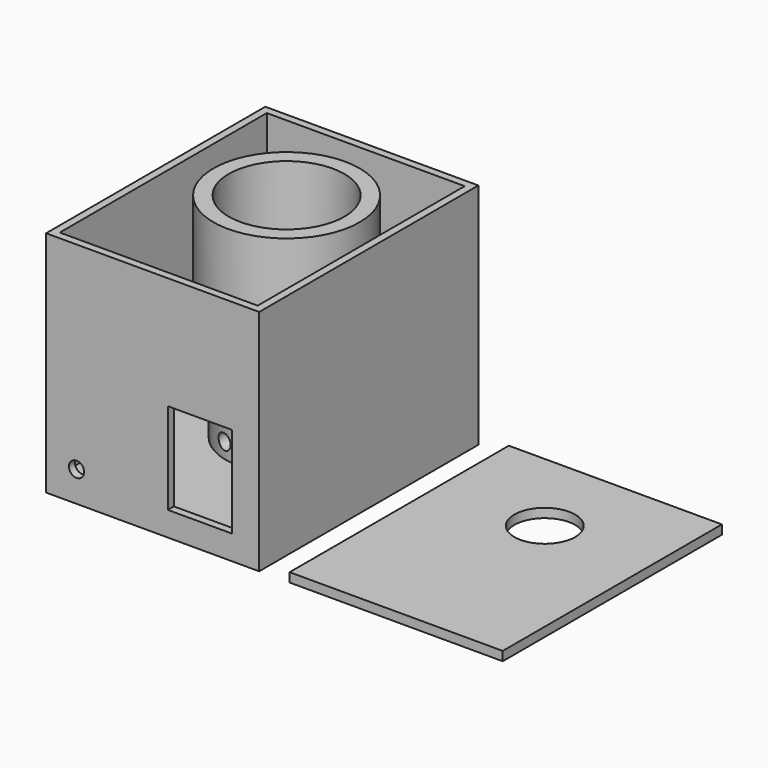
from build123d import *

# Parameters (mm, degrees)
CYLINDER004_R          = 2.5
CYLINDER004_DEPTH      = 10
CYLINDER004_ROLL_ANGLE = 90
BOX002_W               = 21
BOX002_H               = 10
BOX002_DEPTH           = 30
BOX001_W               = 65
BOX001_H               = 85
BOX001_DEPTH           = 75
BOX_W                  = 70
BOX_H                  = 90
BOX_DEPTH              = 75
CYLINDER003_R          = 19
CYLINDER003_DEPTH      = 25
CYLINDER002_R          = 24
CYLINDER002_DEPTH      = 25
CYLINDER005_R          = 2.5
CYLINDER005_DEPTH      = 10
CYLINDER005_ROLL_ANGLE = 90
CYLINDER001_R          = 15
CYLINDER001_DEPTH      = 45
CYLINDER_R             = 20
CYLINDER_DEPTH         = 50
CYLINDER006_R          = 10
CYLINDER006_DEPTH      = 10
BOX003_W               = 70
BOX003_H               = 90
BOX003_DEPTH           = 3


with BuildPart() as cylinder004:
    # Cylinder004 → Cylinder004 (new body)
    with BuildSketch(Plane.XY):
        Circle(CYLINDER004_R)
    extrude(amount=CYLINDER004_DEPTH)


with BuildPart() as cylinder004_1:
    # Cylinder004 roll: moved
    add(cylinder004.part.rotate(Axis((0, 0, 0), (1, 0, 0)), CYLINDER004_ROLL_ANGLE))


with BuildPart() as cylinder004_2:
    # Cylinder004 placement: moved
    add(cylinder004_1.part.moved(Location((-25, -45, 10))))


with BuildPart() as cube002:
    # Box002 → Box002 (new body)
    with BuildSketch(Plane(origin=(5, -60, 8), x_dir=(1, 0, 0), z_dir=(0, 0, 1))):
        with Locations((10.5, 5)):
            Rectangle(BOX002_W, BOX002_H)
    extrude(amount=BOX002_DEPTH)


with BuildPart() as cube001:
    # Box001 → Box001 (new body)
    with BuildSketch(Plane(origin=(-32.5, -42.5, 5), x_dir=(1, 0, 0), z_dir=(0, 0, 1))):
        with Locations((32.5, 42.5)):
            Rectangle(BOX001_W, BOX001_H)
    extrude(amount=BOX001_DEPTH)


with BuildPart() as cut004:
    # Box → Box (new body)
    with BuildSketch(Plane(origin=(-35, -45, 0), x_dir=(1, 0, 0), z_dir=(0, 0, 1))):
        with Locations((35, 45)):
            Rectangle(BOX_W, BOX_H)
    extrude(amount=BOX_DEPTH)

    # Cut002: cut Cube001
    add(cube001.part, mode=Mode.SUBTRACT)


with BuildPart() as cut004_1:
    # Cut002 placement: moved
    add(cut004.part.moved(Location((0, -10, 0))))

    # Cut003: cut Cube002
    add(cube002.part, mode=Mode.SUBTRACT)

    # Cut004: cut Cylinder004
    add(cylinder004_2.part, mode=Mode.SUBTRACT)


with BuildPart() as cylinder003:
    # Cylinder003 → Cylinder003 (new body)
    with BuildSketch(Plane.XY):
        Circle(CYLINDER003_R)
    extrude(amount=CYLINDER003_DEPTH)


with BuildPart() as cut001:
    # Cylinder002 → Cylinder002 (new body)
    with BuildSketch(Plane.XY):
        Circle(CYLINDER002_R)
    extrude(amount=CYLINDER002_DEPTH)

    # Cut001: cut Cylinder003
    add(cylinder003.part, mode=Mode.SUBTRACT)


with BuildPart() as cut001_1:
    # Cut001 placement: moved
    add(cut001.part.moved(Location((0, 0, 50))))


with BuildPart() as cylinder005:
    # Cylinder005 → Cylinder005 (new body)
    with BuildSketch(Plane.XY):
        Circle(CYLINDER005_R)
    extrude(amount=CYLINDER005_DEPTH)


with BuildPart() as cylinder005_1:
    # Cylinder005 roll: moved
    add(cylinder005.part.rotate(Axis((0, 0, 0), (1, 0, 0)), CYLINDER005_ROLL_ANGLE))


with BuildPart() as cylinder005_2:
    # Cylinder005 placement: moved
    add(cylinder005_1.part.moved(Location((-5, -10, 10))))


with BuildPart() as cylinder001:
    # Cylinder001 → Cylinder001 (new body)
    with BuildSketch(Plane.XY.offset(5)):
        Circle(CYLINDER001_R)
    extrude(amount=CYLINDER001_DEPTH)


with BuildPart() as fusion001:
    # Cylinder → Cylinder (new body)
    with BuildSketch(Plane.XY):
        Circle(CYLINDER_R)
    extrude(amount=CYLINDER_DEPTH)

    # Cut: cut Cylinder001
    add(cylinder001.part, mode=Mode.SUBTRACT)

    # Cut005: cut Cylinder005
    add(cylinder005_2.part, mode=Mode.SUBTRACT)

    # Fusion: union Cut001
    add(cut001_1.part)

    # Fusion001: union Cut004
    add(cut004_1.part)


with BuildPart() as cylinder006:
    # Cylinder006 → Cylinder006 (new body)
    with BuildSketch(Plane(origin=(0, 6, 70), x_dir=(1, 0, 0), z_dir=(0, 0, 1))):
        Circle(CYLINDER006_R)
    extrude(amount=CYLINDER006_DEPTH)


with BuildPart() as cut006:
    # Box003 → Box003 (new body)
    with BuildSketch(Plane(origin=(-35, -55, 75), x_dir=(1, 0, 0), z_dir=(0, 0, 1))):
        with Locations((35, 45)):
            Rectangle(BOX003_W, BOX003_H)
    extrude(amount=BOX003_DEPTH)

    # Cut006: cut Cylinder006
    add(cylinder006.part, mode=Mode.SUBTRACT)


with BuildPart() as cut006_1:
    # Cut006 placement: moved
    add(cut006.part.moved(Location((80, 0, -75))))


solid = Compound([fusion001.part, cut006_1.part])
